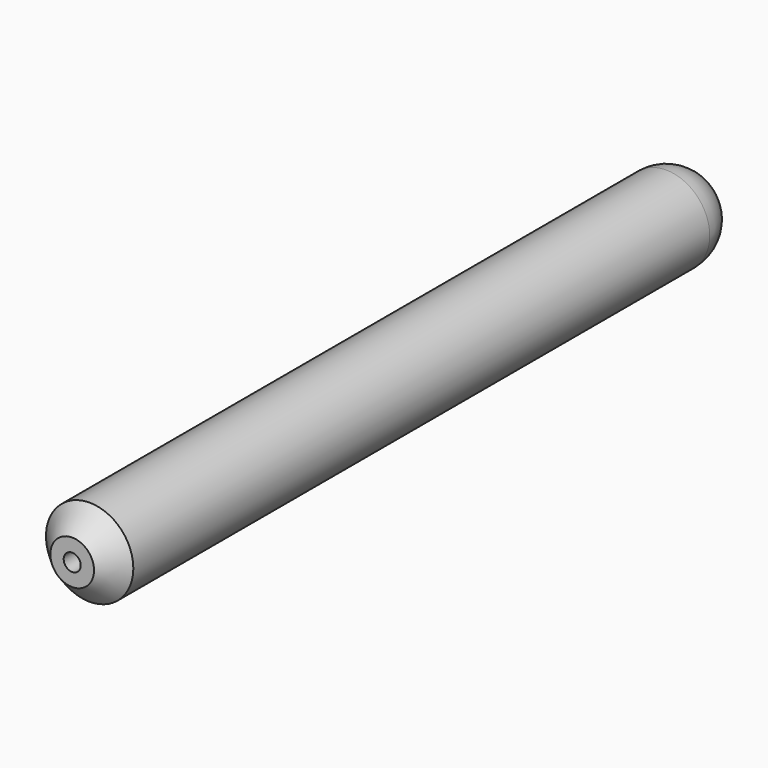
from build123d import *

# Parameters (mm, degrees)
F0_R     = 5.08
F1_DEPTH = 91.44
F2_R     = 0.99
F3_DEPTH = 88.9
F4_SIZE  = 2.54
F5_R     = 5.08


with BuildPart() as f1:
    # F0 (on Front) → F1 (new body)
    with BuildSketch(Plane.XZ):
        Circle(F0_R)
    extrude(amount=F1_DEPTH)

    # F2 (on face) → F3 (cut)
    with BuildSketch(Plane.XZ.offset(91.44)):
        Circle(F2_R)
    extrude(amount=-F3_DEPTH, mode=Mode.SUBTRACT)

    # F4
    f4_edges = [f1.edges().sort_by_distance(p)[0] for p in [
        (-5.08, -91.44, 0),
    ]]
    chamfer(f4_edges, length=F4_SIZE)

    # F5
    f5_edges = [f1.edges().sort_by_distance(p)[0] for p in [
        (-5.08, 0, 0),
    ]]
    fillet(f5_edges, radius=F5_R)


solid = f1.part
